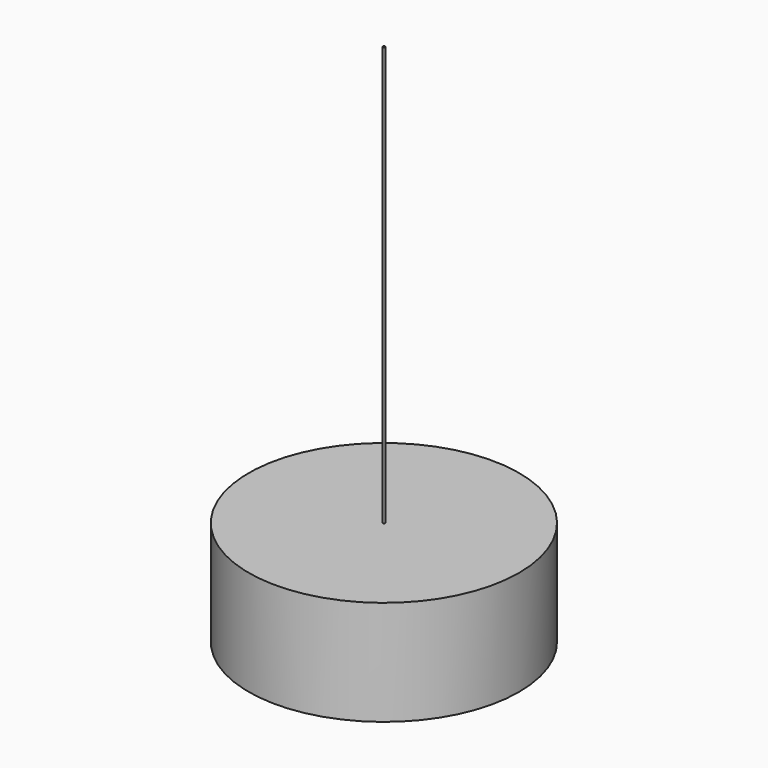
from build123d import *

# Parameters (mm, degrees)
F0_W   = 0.254
F0_H   = 25.4
F0_W_2 = 32.512
F0_H_2 = 101.6


with BuildPart() as f1:
    # F0 (on Front) → F1 (revolve)
    with BuildSketch(Plane.XZ):
        with Locations((0.127, 12.7)):
            Rectangle(F0_W, F0_H)
        with Locations((16.51, 12.7)):
            Rectangle(F0_W_2, F0_H)
        with Locations((0.127, 76.2)):
            Rectangle(F0_W, F0_H_2)
    revolve(axis=Axis((0, 0, 63.5), (0, 0, 1)))


solid = f1.part
